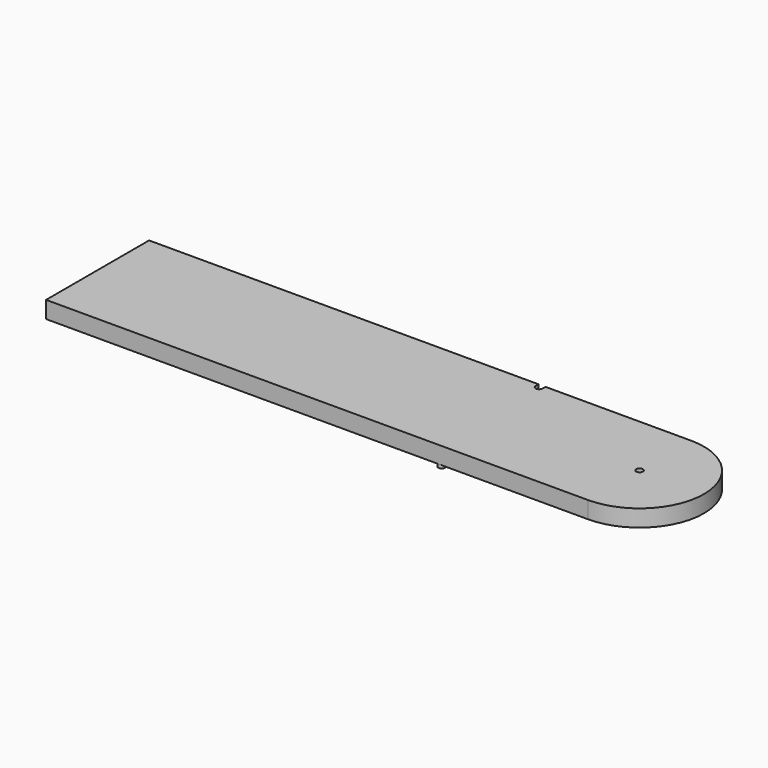
from build123d import *

# Parameters (mm, degrees)
F0_R     = 6.35
F1_DEPTH = 31.75
F2_R     = 6.35
F3_DEPTH = 6.35
F5_DEPTH = 31.75


with BuildPart() as f1:
    # F0 (on Top) → F1 (new body)
    with BuildSketch(Plane.XY):
        with BuildLine():
            Line((-1136.65, 120.65), (-1136.65, -120.65))
            Line((-1136.65, -120.65), (-120.65, -120.65))
            ThreePointArc((-120.65, -120.65), (0, 0), (-120.65, 120.65))
            Line((-120.65, 120.65), (-1136.65, 120.65))
        make_face()
        with Locations((-120.65, 0)):
            Circle(F0_R, mode=Mode.SUBTRACT)
    extrude(amount=F1_DEPTH)

    # F2 (on face) → F3 (join)
    with BuildSketch(Plane(origin=(0, 0, 0), x_dir=(1, 0, 0), z_dir=(0, 0, -1))):
        with Locations((-400.05, 114.3)):
            Circle(F2_R)
    extrude(amount=F3_DEPTH)

    # F4 (on face) → F5 (cut)
    with BuildSketch(Plane(origin=(0, 0, 0), x_dir=(1, 0, 0), z_dir=(0, 0, -1))):
        with BuildLine():
            Line((-393.446, -120.65), (-393.446, -114.046))
            ThreePointArc((-393.446, -114.046), (-400.05, -107.442), (-406.654, -114.046))
            Line((-406.654, -114.046), (-406.654, -120.65))
            Line((-406.654, -120.65), (-393.446, -120.65))
        make_face()
    extrude(amount=-F5_DEPTH, mode=Mode.SUBTRACT)


solid = f1.part
